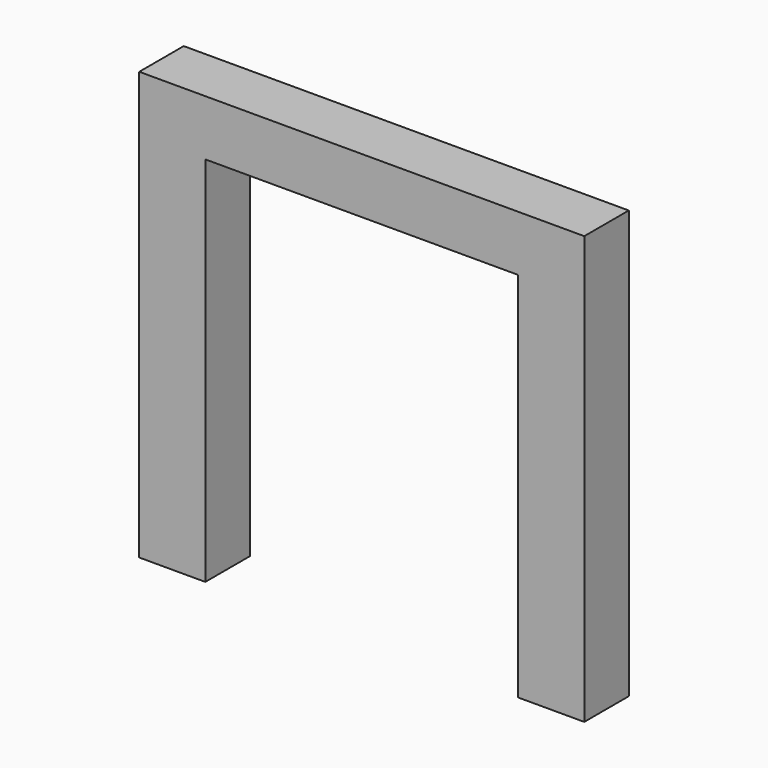
from build123d import *

# Parameters (mm, degrees)
F0_W     = 406.4
F0_H     = 390.525
F1_DEPTH = 50.8
F2_W     = 285.75
F2_H     = 339.725
F3_DEPTH = 50.8


with BuildPart() as f1:
    # F0 (on Front) → F1 (new body)
    with BuildSketch(Plane.XZ):
        with Locations((0, 195.2625)):
            Rectangle(F0_W, F0_H)
    extrude(amount=-F1_DEPTH)

    # F2 (on Front) → F3 (cut, through all)
    with BuildSketch(Plane.XZ):
        with Locations((0, 169.8625)):
            Rectangle(F2_W, F2_H)
    extrude(amount=-F3_DEPTH, mode=Mode.SUBTRACT)


solid = f1.part
